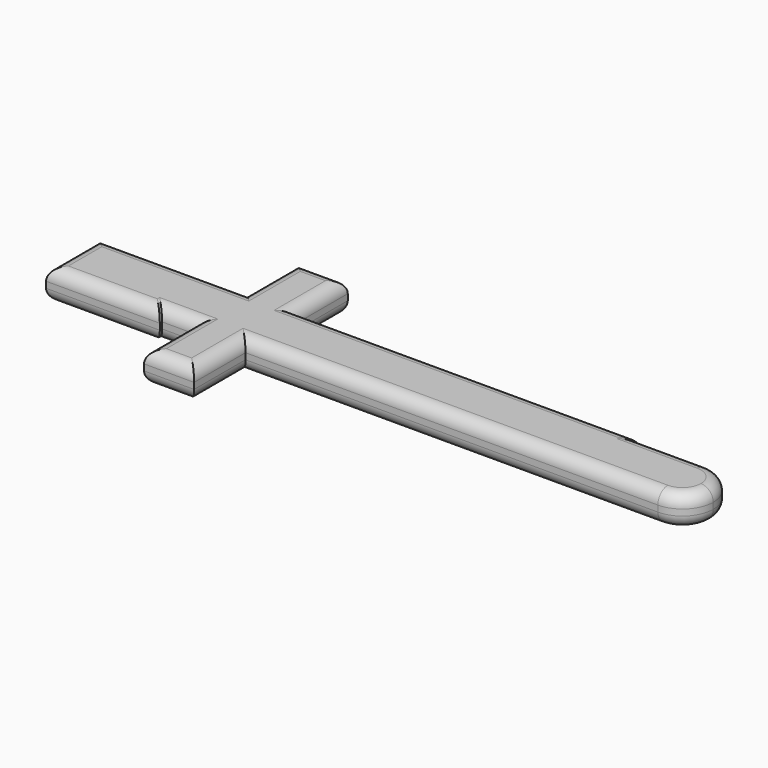
from build123d import *

# Parameters (mm, degrees)
F0_W     = 20.4902794212
F0_H     = 26.3143442571
F0_W_2   = 12.1528850868
F0_H_2   = 26.0365474969
F0_W_3   = 27.7469456196
F0_H_3   = 25.2166213468
F1_DEPTH = 12.7
F2_R     = 5.08


with BuildPart() as f1:
    # F0 (on Top) → F1 (new body)
    with BuildSketch(Plane.XY):
        Polygon((-25.8291084319, -16.788162291), (-25.8291084319, 9.2483852059), (-60.2355673909, 9.2483852059), (-60.2355673909, -17.9737154394), (-13.6762233451, -17.9737154394), (-13.6762233451, -16.788162291), align=None)
        with Locations((10.2451397106, -29.9453344196)):
            Rectangle(F0_W, F0_H)
        with Locations((10.2451397106, 22.4055573344)):
            Rectangle(F0_W, F0_H)
        with BuildLine():
            ThreePointArc((202.0002552275, -4.2338163045), (198.3265410441, 4.7164705016), (189.3920600414, 8.4284590557))
            Line((189.3920600414, 8.4284590557), (189.3920600414, -16.788162291))
            ThreePointArc((189.3920600414, -16.788162291), (198.2883821607, -13.1143326203), (202.0002552275, -4.2338163045))
        make_face()
        with Locations((-19.7526658885, -3.7698885426)):
            Rectangle(F0_W_2, F0_H_2)
        with Locations((175.5185872316, -4.1798516177)):
            Rectangle(F0_W_3, F0_H_3)
        Polygon((0, 9.2483852059), (-13.6762233451, 9.2483852059), (-13.6762233451, -16.788162291), (0, -16.788162291), (20.4902794212, -16.788162291), (161.6451144218, -16.788162291), (161.6451144218, 8.4284590557), (161.6451144218, 9.2483852059), (20.4902794212, 9.2483852059), align=None)
    extrude(amount=-F1_DEPTH)

    # F2
    f2_edges = [f1.edges().sort_by_distance(p)[0] for p in [
        (-36.955895, -17.973715, 0),
        (-60.235567, -4.362665, 0),
        (-13.676223, -17.380939, 0),
        (-6.838112, -16.788162, 0),
        (0, -29.945334, 0),
        (10.24514, -43.102507, 0),
        (20.490279, -29.945334, 0),
        (104.94117, -16.788162, 0),
        (202.000371, -4.179852, 0),
        (175.518587, 8.428459, 0),
        (161.645114, 8.838422, 0),
        (91.067697, 9.248385, 0),
        (20.490279, 22.405557, 0),
        (10.24514, 35.562729, 0),
        (0, 22.405557, 0),
        (-30.117784, 9.248385, 0),
        (-60.235567, -4.362665, -12.7),
        (-36.955895, -17.973715, -12.7),
        (-13.676223, -17.380939, -12.7),
        (-6.838112, -16.788162, -12.7),
        (0, -29.945334, -12.7),
        (10.24514, -43.102507, -12.7),
        (20.490279, -29.945334, -12.7),
        (104.94117, -16.788162, -12.7),
        (202.000371, -4.179852, -12.7),
        (175.518587, 8.428459, -12.7),
        (161.645114, 8.838422, -12.7),
        (91.067697, 9.248385, -12.7),
        (20.490279, 22.405557, -12.7),
        (10.24514, 35.562729, -12.7),
        (0, 22.405557, -12.7),
        (-30.117784, 9.248385, -12.7),
    ]]
    fillet(f2_edges, radius=F2_R)


solid = f1.part
